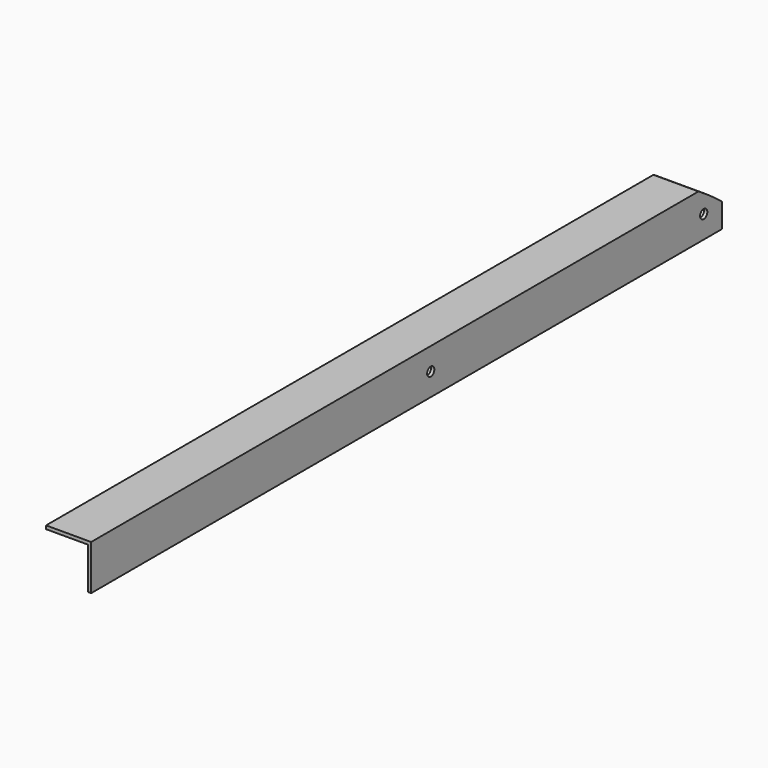
from build123d import *

# Parameters (mm, degrees)
F0_R     = 4
F1_DEPTH = 3
F3_DEPTH = 37


with BuildPart() as f1:
    # F0 (on Right) → F1 (new body)
    with BuildSketch(Plane.YZ):
        with BuildLine():
            ThreePointArc((175.329996, 74.895499), (162.600968, 84.533684), (149.305748, 93.374494))
            Line((149.305748, 93.374494), (-524.670004, 93.374494))
            Line((-524.670004, 93.374494), (-524.670004, 53.374494))
            Line((-524.670004, 53.374494), (175.329996, 53.374494))
            Line((175.329996, 53.374494), (175.329996, 74.895499))
        make_face()
        with Locations((-147.813069, 73.374494)):
            Circle(F0_R, mode=Mode.SUBTRACT)
        with Locations((155.130495, 73.374494)):
            Circle(F0_R, mode=Mode.SUBTRACT)
    extrude(amount=-F1_DEPTH)

    # F2 (on face) → F3 (join)
    with BuildSketch(Plane(origin=(-3, 0, 0), x_dir=(0, -1, 0), z_dir=(-1, 0, 0))):
        with BuildLine():
            ThreePointArc((-149.305748, 93.374494), (-151.670005, 91.887118), (-154.018188, 90.374494))
            Line((-154.018188, 90.374494), (524.670004, 90.374494))
            Line((524.670004, 90.374494), (524.670004, 93.374494))
            Line((524.670004, 93.374494), (-149.305748, 93.374494))
        make_face()
    extrude(amount=F3_DEPTH)


solid = f1.part
